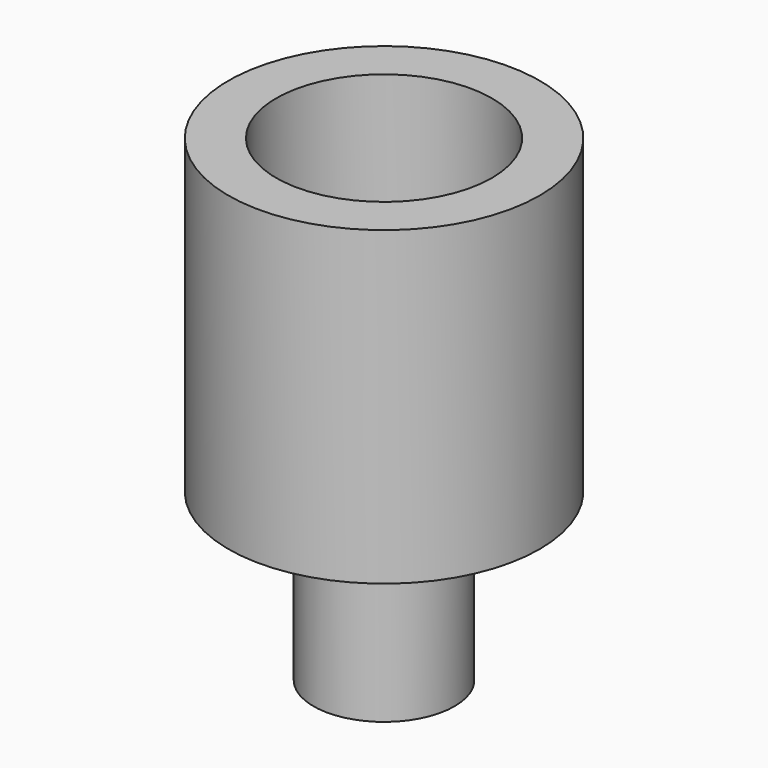
from build123d import *

# Parameters (mm, degrees)
F0_R     = 4.7625
F0_R_2   = 2.159
F1_DEPTH = 9.525
F2_DEPTH = 5.08
F3_R     = 3.302
F4_DEPTH = 6.35


with BuildPart() as f1:
    # F0 (on Top) → F1 (new body)
    with BuildSketch(Plane.XY):
        Circle(F0_R)
        Circle(F0_R_2, mode=Mode.SUBTRACT)
        Circle(F0_R_2)
    extrude(amount=F1_DEPTH)

    # F0 (on Top) → F2 (join)
    with BuildSketch(Plane.XY):
        Circle(F0_R_2)
    extrude(amount=-F2_DEPTH)

    # F3 (on face) → F4 (cut)
    with BuildSketch(Plane.XY.offset(9.525)):
        Circle(F3_R)
    extrude(amount=-F4_DEPTH, mode=Mode.SUBTRACT)


solid = f1.part
